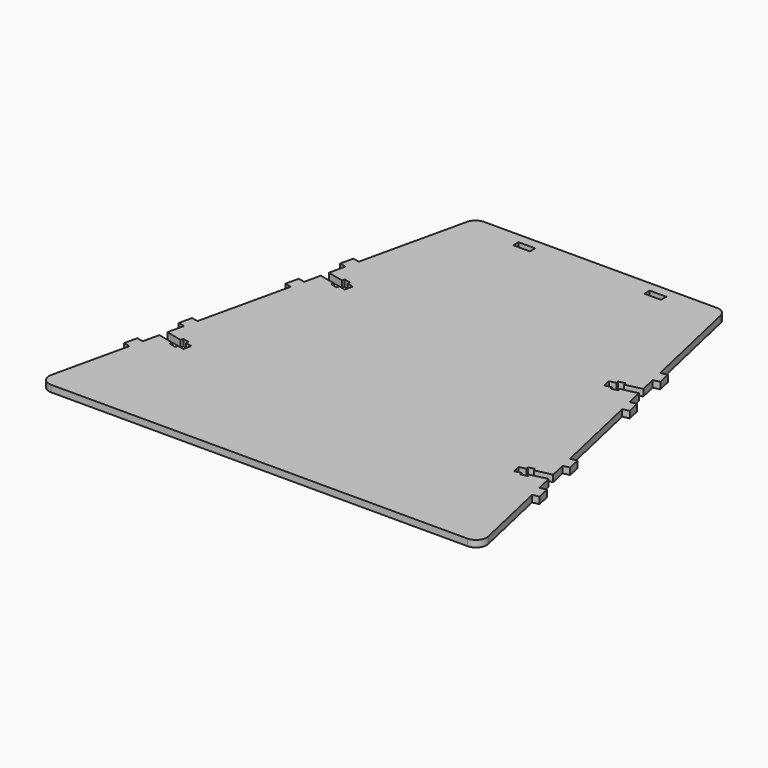
from build123d import *

# Parameters (mm, degrees)
F0_W     = 7.9375
F0_H     = 3.175
F1_DEPTH = 3.175
F2_R     = 5.08


with BuildPart() as f1:
    # F0 (on Top) → F1 (new body)
    with BuildSketch(Plane.XY):
        Polygon((59.53125, 101.6), (-59.53125, 101.6), (-71.808473, 47.410876), (-74.904995, 48.112431), (-76.308106, 41.919389), (-73.211585, 41.217833), (-74.965474, 33.476529), (-67.22417, 31.72264), (-66.943548, 32.961249), (-63.847027, 32.259693), (-64.127649, 31.021085), (-61.031128, 30.319529), (-61.872994, 26.603703), (-64.969516, 27.305259), (-65.250138, 26.066651), (-68.346659, 26.768206), (-68.066037, 28.006815), (-75.807341, 29.760704), (-77.56123, 22.0194), (-80.657751, 22.720956), (-82.060862, 16.527913), (-78.964341, 15.826358), (-88.78612, -27.524942), (-91.882641, -26.823386), (-93.285752, -33.016429), (-90.189231, -33.717985), (-91.94312, -41.459288), (-84.201816, -43.213177), (-83.921194, -41.974569), (-80.824673, -42.676124), (-81.105295, -43.914733), (-78.008774, -44.616288), (-78.85064, -48.332114), (-81.947162, -47.630558), (-82.227784, -48.869167), (-85.324305, -48.167611), (-85.043683, -46.929003), (-92.784987, -45.175114), (-94.538876, -52.916417), (-97.635397, -52.214862), (-99.038508, -58.407904), (-95.941987, -59.10946), (-105.56875, -101.6), (105.56875, -101.6), (95.941987, -59.10946), (99.038508, -58.407904), (97.635397, -52.214862), (94.538876, -52.916417), (92.784987, -45.175114), (85.043683, -46.929003), (85.324305, -48.167611), (82.227784, -48.869167), (81.947162, -47.630558), (78.85064, -48.332114), (78.008774, -44.616288), (81.105295, -43.914733), (80.824673, -42.676124), (83.921194, -41.974569), (84.201816, -43.213177), (91.94312, -41.459288), (90.189231, -33.717985), (93.285752, -33.016429), (91.882641, -26.823386), (88.78612, -27.524942), (78.964341, 15.826358), (82.060862, 16.527913), (80.657751, 22.720956), (77.56123, 22.0194), (75.807341, 29.760704), (68.066037, 28.006815), (68.346659, 26.768206), (65.250138, 26.066651), (64.969516, 27.305259), (61.872994, 26.603703), (61.031128, 30.319529), (64.127649, 31.021085), (63.847027, 32.259693), (66.943548, 32.961249), (67.22417, 31.72264), (74.965474, 33.476529), (73.211585, 41.217833), (76.308106, 41.919389), (74.904995, 48.112431), (71.808473, 47.410876), align=None)
        with Locations((-31.241504, 95.25)):
            Rectangle(F0_W, F0_H, mode=Mode.SUBTRACT)
        with Locations((31.241504, 95.25)):
            Rectangle(F0_W, F0_H, mode=Mode.SUBTRACT)
    extrude(amount=F1_DEPTH)

    # F2
    f2_edges = [f1.edges().sort_by_distance(p)[0] for p in [
        (-59.53125, 101.6, 1.5875),
        (59.53125, 101.6, 1.5875),
        (105.56875, -101.6, 1.5875),
        (-105.56875, -101.6, 1.5875),
    ]]
    fillet(f2_edges, radius=F2_R)


solid = f1.part
